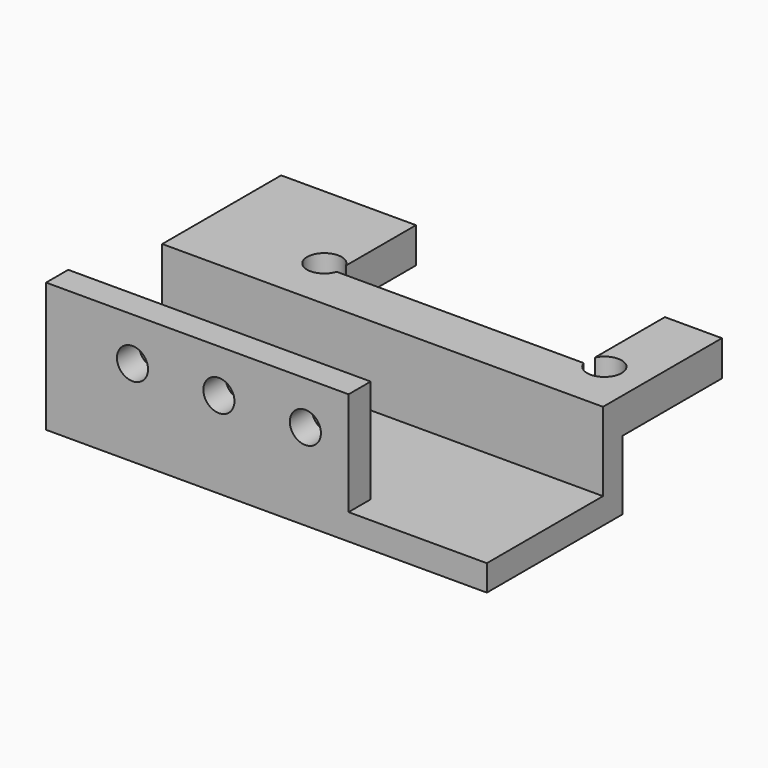
from build123d import *

# Parameters (mm, degrees)
F0_W      = 22.225
F0_H      = 8.89
F0_R      = 1.143
F1_DEPTH  = 2.032
F2_W      = 17.78
F2_H      = 1.905
F3_DEPTH  = 22.225
F4_DEPTH  = 10.16
F5_W      = 10.922
F5_H      = 7.6835
F7_DEPTH  = 32.385
F6_W      = 18.288
F6_H      = 3.556
F6_H_2    = 6.604
F8_DEPTH  = 12.7
F9_R      = 1.27
F10_DEPTH = 25.4
F11_W     = 32.385
F11_H     = 9.652
F12_DEPTH = 5.08


with BuildPart() as f1:
    # F0 (on Front) → F1 (new body)
    with BuildSketch(Plane.XZ):
        with Locations((-11.1125, 4.445)):
            Rectangle(F0_W, F0_H)
        with Locations((-15.875, 5.715)):
            Circle(F0_R, mode=Mode.SUBTRACT)
        with Locations((-9.525, 5.715)):
            Circle(F0_R, mode=Mode.SUBTRACT)
        with Locations((-3.175, 5.715)):
            Circle(F0_R, mode=Mode.SUBTRACT)
    extrude(amount=-F1_DEPTH)

    # F2 (on Right) → F3 (join, through all)
    with BuildSketch(Plane.YZ):
        with Locations((8.89, 0.3175)):
            Rectangle(F2_W, F2_H)
    extrude(amount=-F3_DEPTH)

    # F2 (on Right) → F4 (join)
    with BuildSketch(Plane.YZ):
        with Locations((8.89, 0.3175)):
            Rectangle(F2_W, F2_H)
    extrude(amount=F4_DEPTH)

    # F5 (on face) → F7 (join, through all)
    with BuildSketch(Plane(origin=(-22.225, 0, 0), x_dir=(0, -1, 0), z_dir=(-1, 0, 0))):
        with Locations((-16.129, 3.20675)):
            Rectangle(F5_W, F5_H)
    extrude(amount=-F7_DEPTH)

    # F6 (on face) → F8 (cut, symmetric)
    with BuildSketch(Plane.XY.offset(1.27)):
        with Locations((-3.175, 16.002)):
            Rectangle(F6_W, F6_H)
        with Locations((-3.175, 21.082)):
            Rectangle(F6_W, F6_H_2)
    extrude(amount=F8_DEPTH, both=True, mode=Mode.SUBTRACT)

    # F9 (on face) → F10 (cut)
    with BuildSketch(Plane.XY.offset(7.0485)):
        with Locations((-13.462, 14.605)):
            Circle(F9_R)
        with Locations((7.112, 14.605)):
            Circle(F9_R)
    extrude(amount=-F10_DEPTH, mode=Mode.SUBTRACT)

    # F11 (on face) → F12 (cut)
    with BuildSketch(Plane(origin=(0, 0, -0.635), x_dir=(1, 0, 0), z_dir=(0, 0, -1))):
        with Locations((-6.0325, -17.272)):
            Rectangle(F11_W, F11_H)
    extrude(amount=-F12_DEPTH, mode=Mode.SUBTRACT)


solid = f1.part
